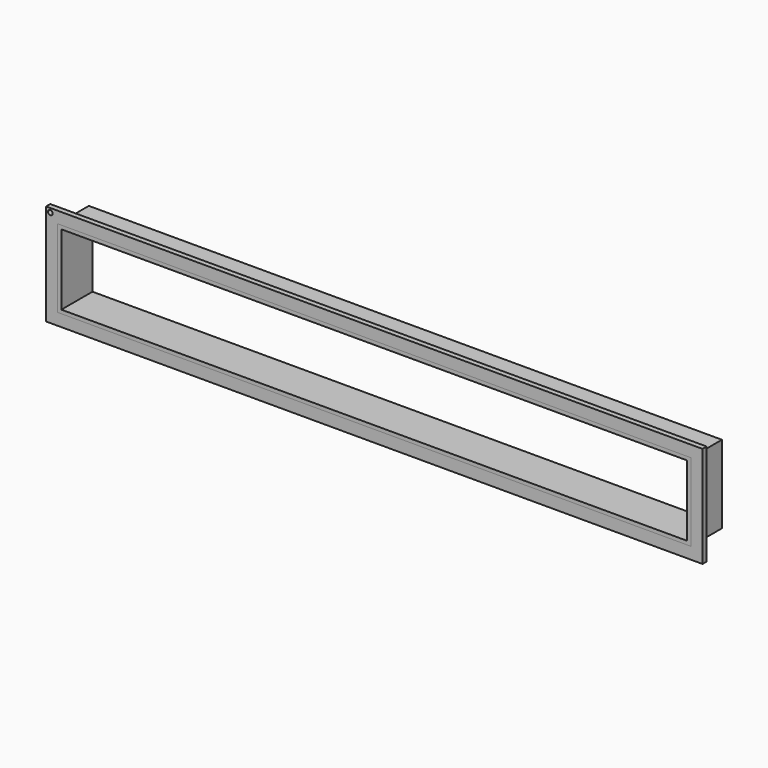
from build123d import *

# Parameters (mm, degrees)
F0_W     = 253.3
F0_H     = 39.1
F1_DEPTH = 1
F2_W     = 244.3
F2_H     = 30.1
F3_DEPTH = 2.001
F4_W     = 244.3
F4_H     = 30.1
F4_W_2   = 241.5
F4_H_2   = 27.3
F5_DEPTH = 15
F8_R     = 0.89897
F9_DEPTH = 50


with BuildPart() as f1:
    # F0 (on Front) → F1 (new body, symmetric)
    with BuildSketch(Plane.XZ):
        with Locations((0, -0.05)):
            Rectangle(F0_W, F0_H)
    extrude(amount=F1_DEPTH, both=True)

    # F2 (on face) → F3 (cut, through all)
    with BuildSketch(Plane.XZ.offset(1)):
        Rectangle(F2_W, F2_H)
    extrude(amount=-F3_DEPTH, mode=Mode.SUBTRACT)

    # F8 (on face) → F9 (cut)
    with BuildSketch(Plane.XZ.offset(1)):
        with Locations((-125.007227, 17.930528)):
            Circle(F8_R)
    extrude(amount=-F9_DEPTH, mode=Mode.SUBTRACT)


with BuildPart() as f5:
    # F4 (on face) → F5 (new body)
    with BuildSketch(Plane.XZ.offset(1)):
        Rectangle(F4_W, F4_H)
        Rectangle(F4_W_2, F4_H_2, mode=Mode.SUBTRACT)
    extrude(amount=-F5_DEPTH)


solid = Compound([f1.part, f5.part])
